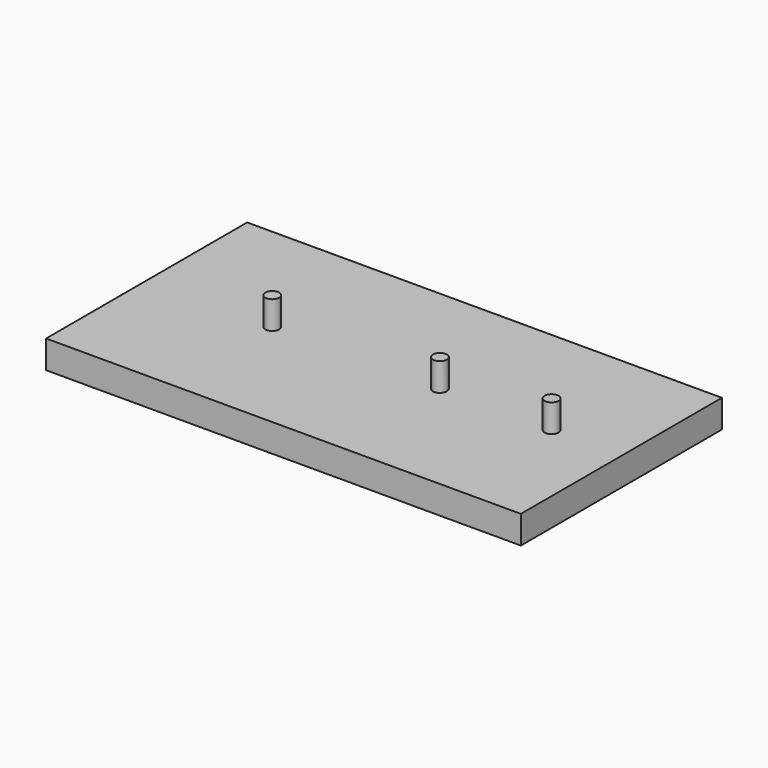
from build123d import *

# Parameters (mm, degrees)
SKETCH_W     = 170
SKETCH_H     = 90
PAD_DEPTH    = 10
SKETCH001_R  = 2.5
PAD001_DEPTH = 10


with BuildPart() as part:
    # Sketch → Pad (new body)
    with BuildSketch(Plane.XY):
        with Locations((-60, 0)):
            Rectangle(SKETCH_W, SKETCH_H)
    extrude(amount=PAD_DEPTH)

    # Sketch001 (on Face6 of Pad) → Pad001 (join)
    with BuildSketch(Plane.XY.offset(10)):
        with Locations((-40, 0)):
            Circle(SKETCH001_R)
        Circle(SKETCH001_R)
        with Locations((-100, 0)):
            Circle(SKETCH001_R)
    extrude(amount=PAD001_DEPTH)


solid = part.part
